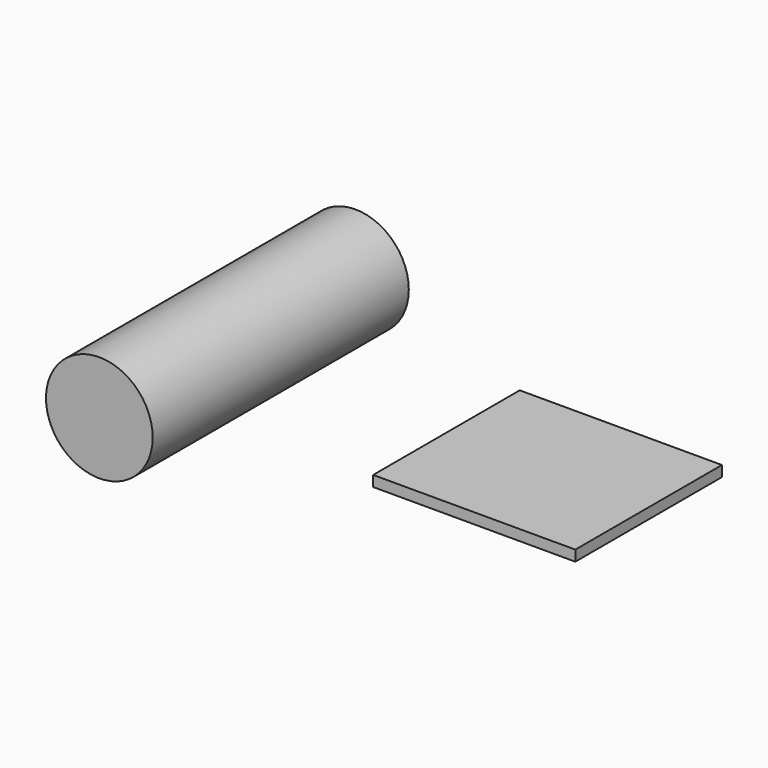
from build123d import *

# Parameters (mm, degrees)
F0_R     = 2.5
F1_DEPTH = 15
F2_W     = 9.473683
F2_H     = 8.585526
F3_DEPTH = 0.5


with BuildPart() as f1:
    # F0 (on Front) → F1 (new body)
    with BuildSketch(Plane.XZ):
        Circle(F0_R)
    extrude(amount=F1_DEPTH)


with BuildPart() as f3:
    # F2 (on Top) → F3 (new body)
    with BuildSketch(Plane.XY):
        with Locations((15.986842, -8.733553)):
            Rectangle(F2_W, F2_H)
    extrude(amount=F3_DEPTH)


solid = Compound([f1.part, f3.part])
